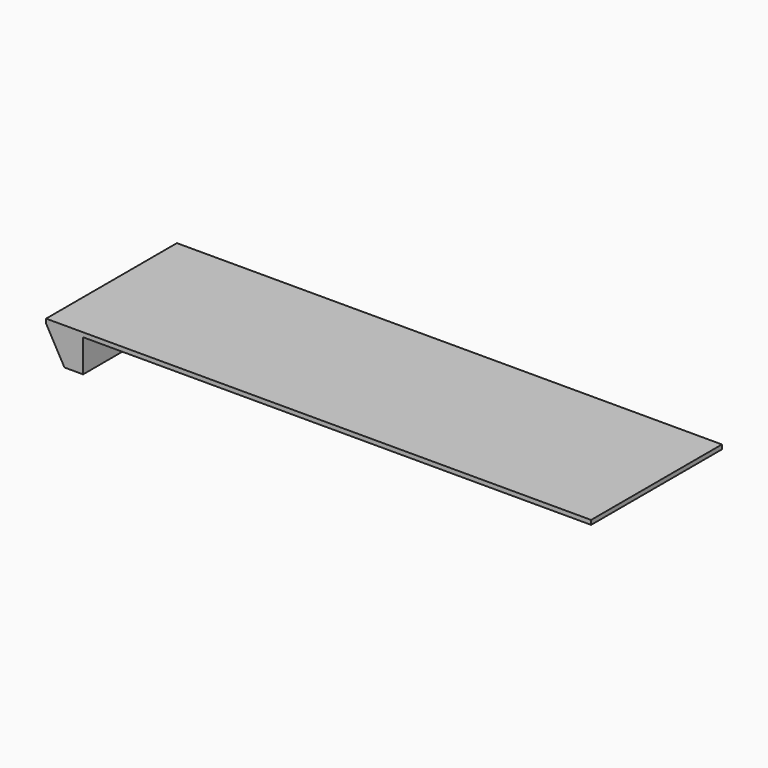
from build123d import *

# Parameters (mm, degrees)
F1_W     = 1500
F1_H     = 12
F2_DEPTH = 225
F4_DEPTH = 225


with BuildPart() as f2:
    # F1 (on Front) → F2 (new body, symmetric)
    with BuildSketch(Plane.XZ):
        with Locations((0, 344)):
            Rectangle(F1_W, F1_H)
    extrude(amount=F2_DEPTH, both=True)

    # F3 (on face) → F4 (join, through all)
    with BuildSketch(Plane.XZ):
        Polygon((-648.1164097786, 338), (-750, 338), (-699.4419693947, 248), (-648.1164097786, 248), (-648.1164097786, 282.9072217941), align=None)
    extrude(amount=F4_DEPTH)


solid = f2.part
